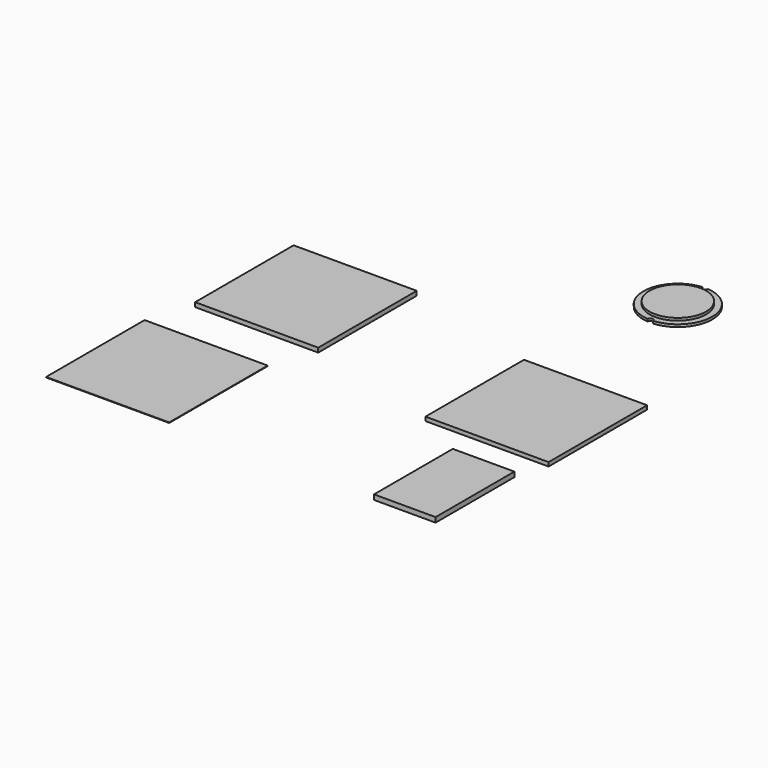
from build123d import *

# Parameters (mm, degrees)
F0_W     = 50
F0_H     = 50
F1_DEPTH = 1.78
F2_DEPTH = 1.6
F3_DEPTH = 0.2
F0_W_2   = 25
F0_H_2   = 40
F4_DEPTH = 2
F0_R     = 11.5
F5_DEPTH = 2
F0_R_2   = 14
F6_DEPTH = 1
F7_D     = 2.2


with BuildPart() as f1:
    # F0 (on Top) → F1 (new body)
    with BuildSketch(Plane.XY):
        with Locations((-60.4736864567, 13.0263153464)):
            Rectangle(F0_W, F0_H)
    extrude(amount=F1_DEPTH)


with BuildPart() as f2:
    # F0 (on Top) → F2 (new body)
    with BuildSketch(Plane.XY):
        with Locations((45.4473696649, -2.4473689497)):
            Rectangle(F0_W, F0_H)
    extrude(amount=F2_DEPTH)


with BuildPart() as f3:
    # F0 (on Top) → F3 (new body)
    with BuildSketch(Plane.XY):
        with Locations((-67.1953260899, -54.2201809585)):
            Rectangle(F0_W, F0_H)
    extrude(amount=F3_DEPTH)


with BuildPart() as f4:
    # F0 (on Top) → F4 (new body)
    with BuildSketch(Plane.XY):
        with Locations((54.0352582932, -59.9272730947)):
            Rectangle(F0_W_2, F0_H_2)
    extrude(amount=F4_DEPTH)


with BuildPart() as f5:
    # F0 (on Top) → F5 (new body)
    with BuildSketch(Plane.XY):
        with Locations((33.884909004, 83.8597640395)):
            Circle(F0_R)
    extrude(amount=F5_DEPTH)

    # F0 (on Top) → F6 (join)
    with BuildSketch(Plane.XY):
        with Locations((33.884909004, 83.8597640395)):
            Circle(F0_R_2)
        with Locations((33.884909004, 83.8597640395)):
            Circle(F0_R, mode=Mode.SUBTRACT)
    extrude(amount=F6_DEPTH)

    # F7 (through all)
    with Locations(Plane(origin=(0, 0, 0), x_dir=(1, 0, 0), z_dir=(0, 0, -1))):
        with Locations((33.884909004, -97.8597640395), (33.884909004, -69.8597640395)):
            Hole(F7_D / 2)


solid = Compound([f1.part, f2.part, f3.part, f4.part, f5.part])
